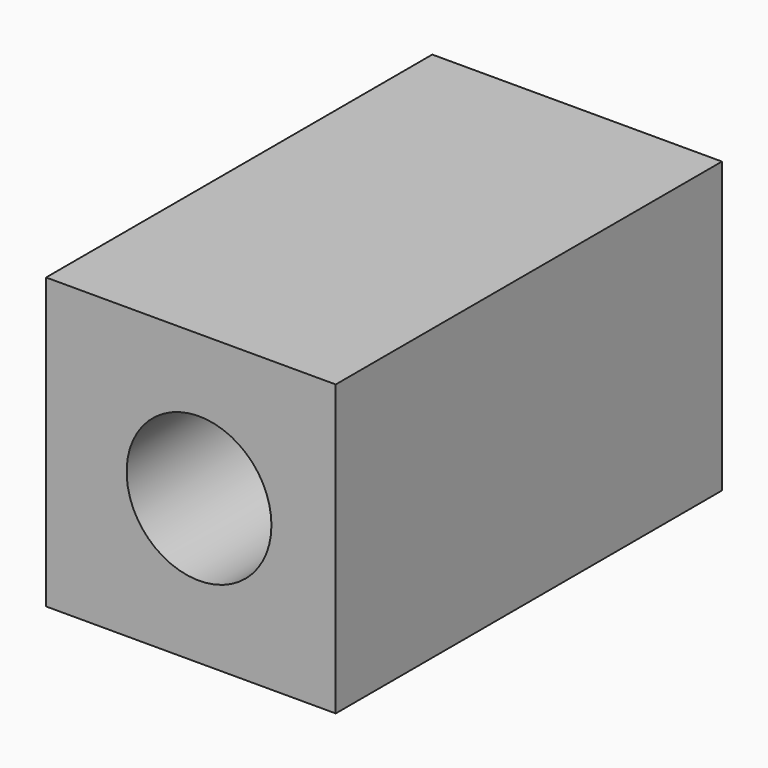
from build123d import *

# Parameters (mm, degrees)
F0_W     = 19.05
F0_H     = 19.05
F1_DEPTH = 63.5
F2_R     = 12.7
F3_DEPTH = 15.24
F4_R     = 9.525
F5_DEPTH = 25.4


with BuildPart() as f1:
    # F0 (on Front) → F1 (new body)
    with BuildSketch(Plane.XZ):
        with Locations((-16.331094, 12.57759)):
            Rectangle(F0_W, F0_H)
        with Locations((2.718906, 12.57759)):
            Rectangle(F0_W, F0_H)
        with Locations((-16.331094, -6.47241)):
            Rectangle(F0_W, F0_H)
        with Locations((2.718906, -6.47241)):
            Rectangle(F0_W, F0_H)
    extrude(amount=F1_DEPTH)

    # F2 (on face) → F3 (cut)
    with BuildSketch(Plane(origin=(0, 0, 0), x_dir=(-1, 0, 0), z_dir=(0, 1, 0))):
        with Locations((6.806094, 3.05259)):
            Circle(F2_R)
    extrude(amount=-F3_DEPTH, mode=Mode.SUBTRACT)

    # F4 (on face) → F5 (cut)
    with BuildSketch(Plane.XZ.offset(63.5)):
        with Locations((-5.737578, 3.05259)):
            Circle(F4_R)
    extrude(amount=-F5_DEPTH, mode=Mode.SUBTRACT)


solid = f1.part
